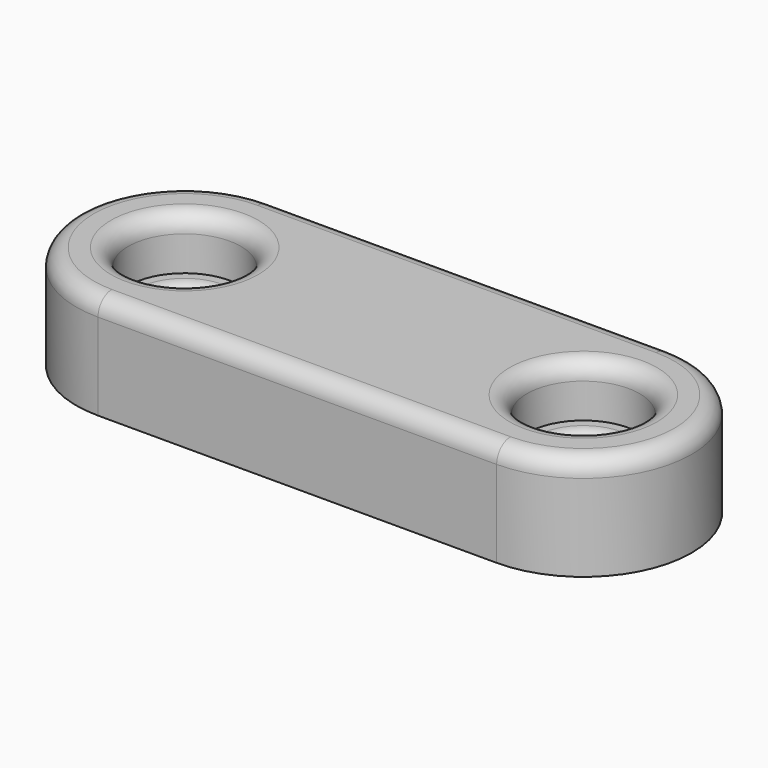
from build123d import *

# Parameters (mm, degrees)
PAD_DEPTH       = 6
SKETCH002_W     = 10
SKETCH002_H     = 10
POCKET_DEPTH    = 2.1
SKETCH003_R     = 1.75
POCKET001_DEPTH = 6.001
FILLET_R        = 1
SKETCH004_R     = 3.25
POCKET002_DEPTH = 3
FILLET001_R     = 1
PAD001_DEPTH    = 6
SKETCH006_R     = 5
POCKET003_DEPTH = 2
SKETCH007_R     = 1.75
POCKET004_DEPTH = 6.001
FILLET002_R     = 1
SKETCH008_R     = 3.25
POCKET005_DEPTH = 3
FILLET003_R     = 1


with BuildPart() as square_magnet_body:
    # Sketch → Pad (new body)
    with BuildSketch(Plane.XY):
        with BuildLine():
            ThreePointArc((-11.5, 6.25), (-17.75, 0), (-11.5, -6.25))
            Line((-11.5, -6.25), (11.5, -6.25))
            ThreePointArc((11.5, -6.25), (17.75, 0), (11.5, 6.25))
            Line((-11.5, 6.25), (11.5, 6.25))
        make_face()
    extrude(amount=PAD_DEPTH)

    # Sketch002 → Pocket (cut)
    with BuildSketch(Plane.XY):
        Rectangle(SKETCH002_W, SKETCH002_H)
    extrude(amount=POCKET_DEPTH, mode=Mode.SUBTRACT)

    # Sketch003 → Pocket001 (cut, through all)
    with BuildSketch(Plane.XY):
        with Locations((11.5, 0)):
            Circle(SKETCH003_R)
        with Locations((-11.5, 0)):
            Circle(SKETCH003_R)
    extrude(amount=POCKET001_DEPTH, mode=Mode.SUBTRACT)

    # Fillet
    fillet_edges = [square_magnet_body.edges().sort_by_distance(p)[0] for p in [
        (0, -6.25, 6),
        (17.75, 0, 6),
        (0, 6.25, 6),
        (-17.75, 0, 6),
    ]]
    fillet(fillet_edges, radius=FILLET_R)

    # Sketch004 → Pocket002 (cut)
    with BuildSketch(Plane.XY.offset(6)):
        with Locations((-11.5, 0)):
            Circle(SKETCH004_R)
        with Locations((11.5, 0)):
            Circle(SKETCH004_R)
    extrude(amount=-POCKET002_DEPTH, mode=Mode.SUBTRACT)

    # Fillet001
    fillet001_edges = [square_magnet_body.edges().sort_by_distance(p)[0] for p in [
        (-14.75, 0, 6),
        (8.25, 0, 6),
        (-13.25, 0, 3),
        (9.75, 0, 3),
    ]]
    fillet(fillet001_edges, radius=FILLET001_R)


with BuildPart() as round_magnet_body:
    # Sketch005 → Pad001 (new body)
    with BuildSketch(Plane.XY):
        with BuildLine():
            ThreePointArc((-11.5, 6.25), (-17.75, 0), (-11.5, -6.25))
            Line((-11.5, -6.25), (11.5, -6.25))
            ThreePointArc((11.5, -6.25), (17.75, 0), (11.5, 6.25))
            Line((-11.5, 6.25), (11.5, 6.25))
        make_face()
    extrude(amount=PAD001_DEPTH)

    # Sketch006 → Pocket003 (cut)
    with BuildSketch(Plane.XY):
        Circle(SKETCH006_R)
    extrude(amount=POCKET003_DEPTH, mode=Mode.SUBTRACT)

    # Sketch007 → Pocket004 (cut, through all)
    with BuildSketch(Plane.XY):
        with Locations((11.5, 0)):
            Circle(SKETCH007_R)
        with Locations((-11.5, 0)):
            Circle(SKETCH007_R)
    extrude(amount=POCKET004_DEPTH, mode=Mode.SUBTRACT)

    # Fillet002
    fillet002_edges = [round_magnet_body.edges().sort_by_distance(p)[0] for p in [
        (0, -6.25, 6),
        (-9.75, 0, 3),
        (0, 6.25, 6),
        (-17.75, 0, 6),
    ]]
    fillet(fillet002_edges, radius=FILLET002_R)

    # Sketch008 → Pocket005 (cut)
    with BuildSketch(Plane.XY.offset(6)):
        with Locations((-11.5, 0)):
            Circle(SKETCH008_R)
        with Locations((11.5, 0)):
            Circle(SKETCH008_R)
    extrude(amount=-POCKET005_DEPTH, mode=Mode.SUBTRACT)

    # Fillet003
    fillet003_edges = [round_magnet_body.edges().sort_by_distance(p)[0] for p in [
        (-13.25, 0, 3),
        (-14.75, 0, 6),
        (8.25, 0, 6),
        (9.75, 0, 3),
    ]]
    fillet(fillet003_edges, radius=FILLET003_R)


solid = Compound([square_magnet_body.part, round_magnet_body.part])
